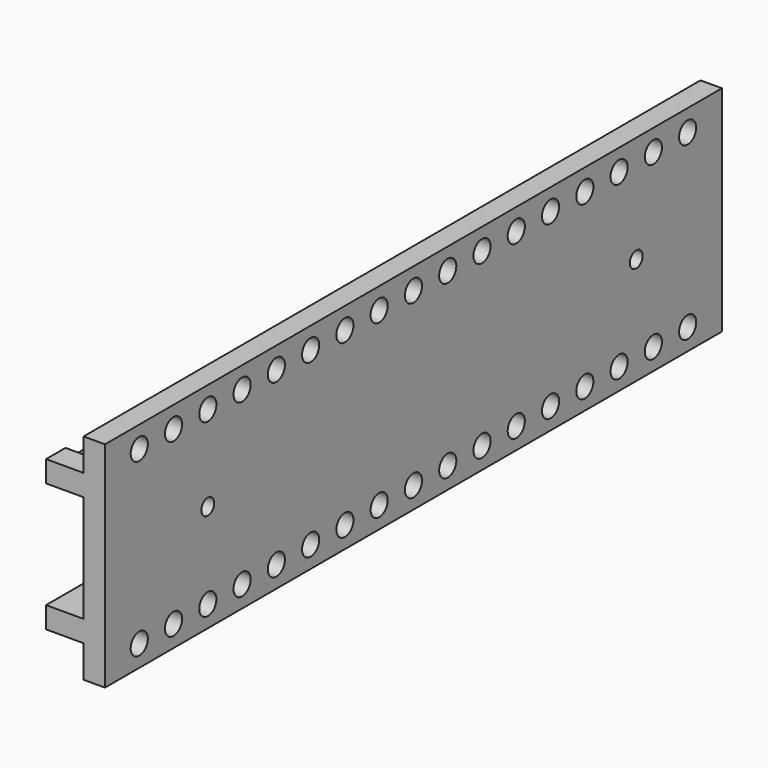
from build123d import *

# Parameters (mm, degrees)
PAD026_DEPTH    = 144
SKETCH044_W     = 40
SKETCH044_H     = 144
PAD027_DEPTH    = 4
SKETCH045_R     = 1.5
POCKET014_DEPTH = 5
SKETCH046_R     = 2
POCKET015_DEPTH = 4
SKETCH047_R     = 4
POCKET016_DEPTH = 7


with BuildPart() as leftfront001:
    # Sketch043 → Pad026 (new body)
    with BuildSketch(Plane.XZ):
        Polygon((0, 0), (0, 10), (7, 10), (7, 14), (-4, 14), (-4, -14), (7, -14), (7, -10), (0, -10), align=None)
    extrude(amount=PAD026_DEPTH)

    # Sketch044 (on Face4 of Pad026) → Pad027 (join)
    with BuildSketch(Plane(origin=(-4, 0, 0), x_dir=(0, 0, -1), z_dir=(-1, 0, 0))):
        with Locations((0, 72)):
            Rectangle(SKETCH044_W, SKETCH044_H)
    extrude(amount=-PAD027_DEPTH)

    # Sketch045 (on Face14 of Pad027) → Pocket014 (cut)
    with BuildSketch(Plane(origin=(-4, 0, 0), x_dir=(0, 0, -1), z_dir=(-1, 0, 0))):
        with Locations((0, 20)):
            Circle(SKETCH045_R)
        with Locations((0, 120)):
            Circle(SKETCH045_R)
    extrude(amount=-POCKET014_DEPTH, mode=Mode.SUBTRACT)

    # Sketch046 (on Face14 of Pocket014) → Pocket015 (cut)
    with BuildSketch(Plane(origin=(-4, 0, 0), x_dir=(0, 0, -1), z_dir=(-1, 0, 0))):
        with Locations((-16, 8)):
            Circle(SKETCH046_R)
        with Locations((-16, 16)):
            Circle(SKETCH046_R)
        with Locations((-16, 24)):
            Circle(SKETCH046_R)
        with Locations((-16, 32)):
            Circle(SKETCH046_R)
        with Locations((-16, 40)):
            Circle(SKETCH046_R)
        with Locations((-16, 48)):
            Circle(SKETCH046_R)
        with Locations((-16, 56)):
            Circle(SKETCH046_R)
        with Locations((-16, 64)):
            Circle(SKETCH046_R)
        with Locations((-16, 136)):
            Circle(SKETCH046_R)
        with Locations((-16, 128)):
            Circle(SKETCH046_R)
        with Locations((-16, 120)):
            Circle(SKETCH046_R)
        with Locations((-16, 112)):
            Circle(SKETCH046_R)
        with Locations((-16, 104)):
            Circle(SKETCH046_R)
        with Locations((-16, 96)):
            Circle(SKETCH046_R)
        with Locations((-16, 88)):
            Circle(SKETCH046_R)
        with Locations((-16, 80)):
            Circle(SKETCH046_R)
        with Locations((-16, 72)):
            Circle(SKETCH046_R)
        with Locations((16, 136)):
            Circle(SKETCH046_R)
        with Locations((16, 128)):
            Circle(SKETCH046_R)
        with Locations((16, 120)):
            Circle(SKETCH046_R)
        with Locations((16, 112)):
            Circle(SKETCH046_R)
        with Locations((16, 104)):
            Circle(SKETCH046_R)
        with Locations((16, 96)):
            Circle(SKETCH046_R)
        with Locations((16, 88)):
            Circle(SKETCH046_R)
        with Locations((16, 80)):
            Circle(SKETCH046_R)
        with Locations((16, 72)):
            Circle(SKETCH046_R)
        with Locations((16, 64)):
            Circle(SKETCH046_R)
        with Locations((16, 56)):
            Circle(SKETCH046_R)
        with Locations((16, 48)):
            Circle(SKETCH046_R)
        with Locations((16, 40)):
            Circle(SKETCH046_R)
        with Locations((16, 32)):
            Circle(SKETCH046_R)
        with Locations((16, 24)):
            Circle(SKETCH046_R)
        with Locations((16, 16)):
            Circle(SKETCH046_R)
        with Locations((16, 8)):
            Circle(SKETCH046_R)
    extrude(amount=-POCKET015_DEPTH, mode=Mode.SUBTRACT)

    # Sketch047 (on Face16 of Pocket014) → Pocket016 (cut)
    with BuildSketch(Plane(origin=(0, 0, 0), x_dir=(0, 0, 1), z_dir=(1, 0, 0))):
        with Locations((-16, 8)):
            Circle(SKETCH047_R)
        with Locations((-16, 16)):
            Circle(SKETCH047_R)
        with Locations((-16, 24)):
            Circle(SKETCH047_R)
        with Locations((-16, 32)):
            Circle(SKETCH047_R)
        with Locations((-16, 40)):
            Circle(SKETCH047_R)
        with Locations((-16, 48)):
            Circle(SKETCH047_R)
        with Locations((-16, 56)):
            Circle(SKETCH047_R)
        with Locations((-16, 64)):
            Circle(SKETCH047_R)
        with Locations((-16, 136)):
            Circle(SKETCH047_R)
        with Locations((-16, 128)):
            Circle(SKETCH047_R)
        with Locations((-16, 120)):
            Circle(SKETCH047_R)
        with Locations((-16, 112)):
            Circle(SKETCH047_R)
        with Locations((-16, 104)):
            Circle(SKETCH047_R)
        with Locations((-16, 96)):
            Circle(SKETCH047_R)
        with Locations((-16, 88)):
            Circle(SKETCH047_R)
        with Locations((-16, 80)):
            Circle(SKETCH047_R)
        with Locations((-16, 72)):
            Circle(SKETCH047_R)
        with Locations((16, 136)):
            Circle(SKETCH047_R)
        with Locations((16, 128)):
            Circle(SKETCH047_R)
        with Locations((16, 120)):
            Circle(SKETCH047_R)
        with Locations((16, 112)):
            Circle(SKETCH047_R)
        with Locations((16, 104)):
            Circle(SKETCH047_R)
        with Locations((16, 96)):
            Circle(SKETCH047_R)
        with Locations((16, 88)):
            Circle(SKETCH047_R)
        with Locations((16, 80)):
            Circle(SKETCH047_R)
        with Locations((16, 72)):
            Circle(SKETCH047_R)
        with Locations((16, 64)):
            Circle(SKETCH047_R)
        with Locations((16, 56)):
            Circle(SKETCH047_R)
        with Locations((16, 48)):
            Circle(SKETCH047_R)
        with Locations((16, 40)):
            Circle(SKETCH047_R)
        with Locations((16, 32)):
            Circle(SKETCH047_R)
        with Locations((16, 24)):
            Circle(SKETCH047_R)
        with Locations((16, 16)):
            Circle(SKETCH047_R)
        with Locations((16, 8)):
            Circle(SKETCH047_R)
    extrude(amount=POCKET016_DEPTH, mode=Mode.SUBTRACT)


with BuildPart() as leftfront001_1:
    # Body014 placement: moved
    add(leftfront001.part.moved(Location((-92, -59.5, 13.5))))


with BuildPart() as rightfront001:
    # Part__Mirroring003: instance of LeftFront001
    add(leftfront001_1.part.mirror(Plane(origin=(0, 0, 0), x_dir=(0, -1, 0), z_dir=(1, 0, 0))))


solid = rightfront001.part
